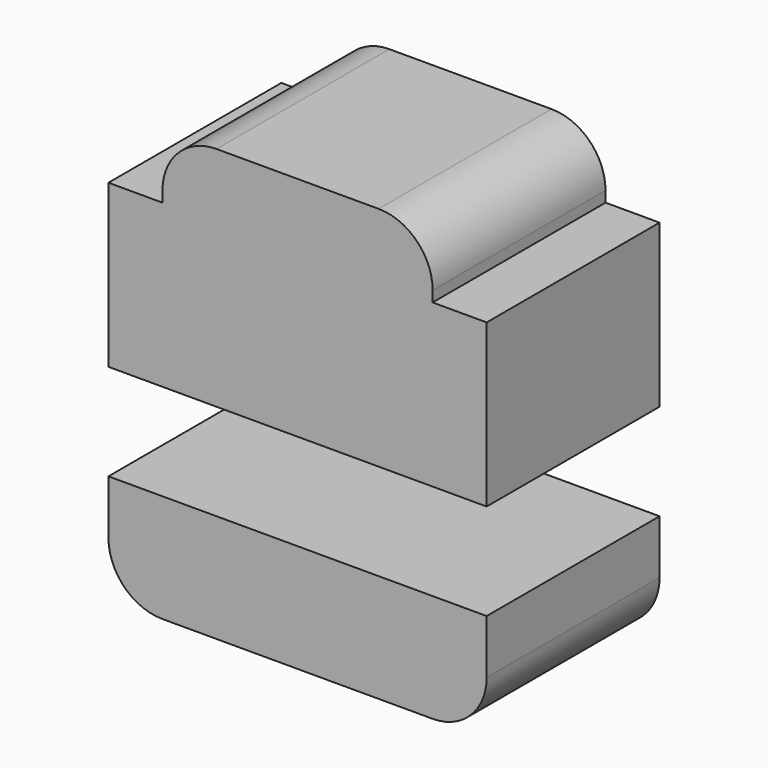
from build123d import *

# Parameters (mm, degrees)
F1_DEPTH = 20


with BuildPart() as f1:
    # F0 (on Front) → F1 (new body)
    with BuildSketch(Plane.XZ):
        with BuildLine():
            Line((-33.541933, 40.729186), (-68.541933, 40.729186))
            Line((-68.541933, 40.729186), (-68.541933, 35.729186))
            ThreePointArc((-68.541933, 35.729186), (-67.077467, 32.193652), (-63.541933, 30.729186))
            Line((-63.541933, 30.729186), (-38.541933, 30.729186))
            ThreePointArc((-38.541933, 30.729186), (-35.006399, 32.193652), (-33.541933, 35.729186))
            Line((-33.541933, 35.729186), (-33.541933, 40.729186))
        make_face()
        with BuildLine():
            Line((-68.541933, 64.649358), (-68.541933, 49.649358))
            Line((-68.541933, 49.649358), (-33.541933, 49.649358))
            Line((-33.541933, 49.649358), (-33.541933, 64.649358))
            Line((-33.541933, 64.649358), (-38.541933, 64.649358))
            Line((-38.541933, 64.649358), (-38.541933, 65.649358))
            ThreePointArc((-38.541933, 65.649358), (-40.006399, 69.184892), (-43.541933, 70.649358))
            Line((-43.541933, 70.649358), (-58.541933, 70.649358))
            ThreePointArc((-58.541933, 70.649358), (-62.077467, 69.184892), (-63.541933, 65.649358))
            Line((-63.541933, 65.649358), (-63.541933, 64.649358))
            Line((-63.541933, 64.649358), (-68.541933, 64.649358))
        make_face()
        with BuildLine():
            Line((-33.541933, 40.729186), (-68.541933, 40.729186))
            Line((-68.541933, 40.729186), (-68.541933, 35.729186))
            ThreePointArc((-68.541933, 35.729186), (-67.077467, 32.193652), (-63.541933, 30.729186))
            Line((-63.541933, 30.729186), (-38.541933, 30.729186))
            ThreePointArc((-38.541933, 30.729186), (-35.006399, 32.193652), (-33.541933, 35.729186))
            Line((-33.541933, 35.729186), (-33.541933, 40.729186))
        make_face()
    extrude(amount=F1_DEPTH)


solid = f1.part
